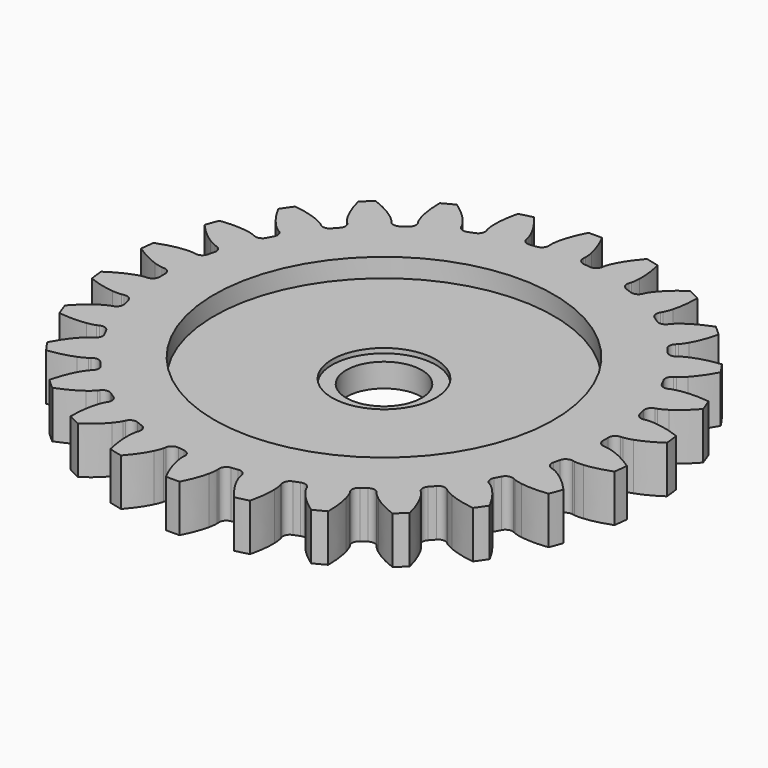
from build123d import *

# Parameters (mm, degrees)
PAD149_DEPTH            = 5
SKETCH217_R             = 18
POCKET051_DEPTH         = 2
SKETCH218_R             = 5.5
POCKET052_DEPTH         = 0.5
SKETCH219_R             = 4
POCKET053_DEPTH         = 5
BODY123_PLACEMENT_ANGLE = 90


with BuildPart() as part:
    # InvoluteGear006 → Pad149 (new body)
    with BuildSketch(Plane.XY):
        with BuildLine():
            Line((24.169679, -1.823902), (24.402023, -1.839925))
            add(Edge.make_bspline(
                [(24.402023, -1.839925), (24.505998, -1.841884), (24.819273, -1.836079), (25.341009, -1.726455)],
                knots=[0, 0, 0, 0, 1, 1, 1, 1], degree=3))
            add(Edge.make_bspline(
                [(25.341009, -1.726455), (25.966142, -1.593485), (26.869244, -1.31269), (27.992723, -0.722987)],
                knots=[0, 0, 0, 0, 1, 1, 1, 1], degree=3))
            ThreePointArc((27.992723, -0.722987), (28.002059, 0), (27.992723, 0.722987))
            add(Edge.make_bspline(
                [(27.992723, 0.722987), (26.869244, 1.31269), (25.966142, 1.593485), (25.341009, 1.726455)],
                knots=[0, 0, 0, 0, 1, 1, 1, 1], degree=3))
            add(Edge.make_bspline(
                [(25.341009, 1.726455), (24.819273, 1.836079), (24.505998, 1.841884), (24.402023, 1.839925)],
                knots=[0, 0, 0, 0, 1, 1, 1, 1], degree=3))
            Line((24.402023, 1.839925), (24.169679, 1.823902))
            ThreePointArc((24.169679, 1.823902), (23.633311, 1.995437), (23.367509, 2.49189))
            ThreePointArc((23.367509, 2.49189), (23.328659, 2.832612), (23.28484, 3.172731))
            ThreePointArc((23.28484, 3.172731), (23.424109, 3.718368), (23.90384, 4.013281))
            Line((23.90384, 4.013281), (24.133268, 4.053326))
            add(Edge.make_bspline(
                [(24.133268, 4.053326), (24.23469, 4.076307), (24.537472, 4.156915), (25.017813, 4.388213)],
                knots=[0, 0, 0, 0, 1, 1, 1, 1], degree=3))
            add(Edge.make_bspline(
                [(25.017813, 4.388213), (25.592959, 4.666923), (26.40262, 5.155685), (27.352328, 5.997119)],
                knots=[0, 0, 0, 0, 1, 1, 1, 1], degree=3))
            ThreePointArc((27.352328, 5.997119), (27.18837, 6.701331), (27.006283, 7.401076))
            add(Edge.make_bspline(
                [(27.006283, 7.401076), (25.774325, 7.704777), (24.830267, 7.761286), (24.191477, 7.740788)],
                knots=[0, 0, 0, 0, 1, 1, 1, 1], degree=3))
            add(Edge.make_bspline(
                [(24.191477, 7.740788), (23.658667, 7.722367), (23.353106, 7.653031), (23.252622, 7.626247)],
                knots=[0, 0, 0, 0, 1, 1, 1, 1], degree=3))
            Line((23.252622, 7.626247), (23.030864, 7.555085))
            ThreePointArc((23.030864, 7.555085), (22.46903, 7.593275), (22.092143, 8.011691))
            ThreePointArc((22.092143, 8.011691), (21.972882, 8.333215), (21.848941, 8.652964))
            ThreePointArc((21.848941, 8.652964), (21.853583, 9.216075), (22.248797, 9.617225))
            Line((22.248797, 9.617225), (22.461974, 9.711013))
            add(Edge.make_bspline(
                [(22.461974, 9.711013), (22.55495, 9.757598), (22.829643, 9.908324), (23.240672, 10.247854)],
                knots=[0, 0, 0, 0, 1, 1, 1, 1], degree=3))
            add(Edge.make_bspline(
                [(23.240672, 10.247854), (23.732407, 10.656107), (24.401571, 11.324431), (25.122314, 12.368694)],
                knots=[0, 0, 0, 0, 1, 1, 1, 1], degree=3))
            ThreePointArc((25.122314, 12.368694), (24.794592, 13.013206), (24.450336, 13.64904))
            add(Edge.make_bspline(
                [(24.450336, 13.64904), (23.181496, 13.64909), (22.251348, 13.478029), (21.636025, 13.305254)],
                knots=[0, 0, 0, 0, 1, 1, 1, 1], degree=3))
            add(Edge.make_bspline(
                [(21.636025, 13.305254), (21.123106, 13.159858), (20.843017, 13.019412), (20.751862, 12.969358)],
                knots=[0, 0, 0, 0, 1, 1, 1, 1], degree=3))
            Line((20.751862, 12.969358), (20.553579, 12.847195))
            ThreePointArc((20.553579, 12.847195), (19.998931, 12.749819), (19.532863, 13.065882))
            ThreePointArc((19.532863, 13.065882), (19.340121, 13.349522), (19.143261, 13.630318))
            ThreePointArc((19.143261, 13.630318), (19.013007, 14.178177), (19.300735, 14.662252))
            Line((19.300735, 14.662252), (19.485273, 14.804331))
            add(Edge.make_bspline(
                [(19.485273, 14.804331), (19.564398, 14.871813), (19.795038, 15.083897), (20.112869, 15.511927)],
                knots=[0, 0, 0, 0, 1, 1, 1, 1], degree=3))
            add(Edge.make_bspline(
                [(20.112869, 15.511927), (20.492613, 16.025997), (20.982392, 16.835042), (21.432283, 18.021445)],
                knots=[0, 0, 0, 0, 1, 1, 1, 1], degree=3))
            ThreePointArc((21.432283, 18.021445), (20.959842, 18.5688), (20.473425, 19.103773))
            add(Edge.make_bspline(
                [(20.473425, 19.103773), (19.241443, 18.800167), (18.379261, 18.411478), (17.823166, 18.096467)],
                knots=[0, 0, 0, 0, 1, 1, 1, 1], degree=3))
            add(Edge.make_bspline(
                [(17.823166, 18.096467), (17.359947, 17.832547), (17.121608, 17.629152), (17.04508, 17.558738)],
                knots=[0, 0, 0, 0, 1, 1, 1, 1], degree=3))
            Line((17.04508, 17.558738), (16.881794, 17.392672))
            ThreePointArc((16.881794, 17.392672), (16.366567, 17.16539), (15.838403, 17.360731))
            ThreePointArc((15.838403, 17.360731), (15.583382, 17.590003), (15.325044, 17.815528))
            ThreePointArc((15.325044, 17.815528), (15.067463, 18.316296), (15.230984, 18.855162))
            Line((15.230984, 18.855162), (15.376158, 19.037275))
            add(Edge.make_bspline(
                [(15.376158, 19.037275), (15.436834, 19.121732), (15.610017, 19.382849), (15.816178, 19.874503)],
                knots=[0, 0, 0, 0, 1, 1, 1, 1], degree=3))
            add(Edge.make_bspline(
                [(15.816178, 19.874503), (16.061862, 20.464514), (16.343793, 21.367261), (16.496686, 22.626856)],
                knots=[0, 0, 0, 0, 1, 1, 1, 1], degree=3))
            ThreePointArc((16.496686, 22.626856), (15.906982, 23.045243), (15.306672, 23.448263))
            add(Edge.make_bspline(
                [(15.306672, 23.448263), (14.183147, 22.858647), (13.439038, 22.274919), (12.974489, 21.835979)],
                knots=[0, 0, 0, 0, 1, 1, 1, 1], degree=3))
            add(Edge.make_bspline(
                [(12.974489, 21.835979), (12.587891, 21.468873), (12.405153, 21.21435), (12.3477, 21.127668)],
                knots=[0, 0, 0, 0, 1, 1, 1, 1], degree=3))
            Line((12.3477, 21.127668), (12.228901, 20.92735))
            ThreePointArc((12.228901, 20.92735), (11.783038, 20.583371), (11.223473, 20.646638))
            ThreePointArc((11.223473, 20.646638), (10.920995, 20.808217), (10.616191, 20.965364))
            ThreePointArc((10.616191, 20.965364), (10.246254, 21.389937), (10.276064, 21.952278))
            Line((10.276064, 21.952278), (10.373437, 22.163841))
            add(Edge.make_bspline(
                [(10.373437, 22.163841), (10.412138, 22.260365), (10.517799, 22.555341), (10.600309, 23.082045)],
                knots=[0, 0, 0, 0, 1, 1, 1, 1], degree=3))
            add(Edge.make_bspline(
                [(10.600309, 23.082045), (10.697655, 23.713707), (10.755352, 24.657693), (10.602361, 25.917276)],
                knots=[0, 0, 0, 0, 1, 1, 1, 1], degree=3))
            ThreePointArc((10.602361, 25.917276), (9.929667, 26.18238), (9.250352, 26.430025))
            add(Edge.make_bspline(
                [(9.250352, 26.430025), (8.300578, 25.588666), (7.717787, 24.843822), (7.371782, 24.306464)],
                knots=[0, 0, 0, 0, 1, 1, 1, 1], degree=3))
            add(Edge.make_bspline(
                [(7.371782, 24.306464), (7.084272, 23.857506), (6.967755, 23.566647), (6.932717, 23.468734)],
                knots=[0, 0, 0, 0, 1, 1, 1, 1], degree=3))
            Line((6.932717, 23.468734), (6.865309, 23.245807))
            ThreePointArc((6.865309, 23.245807), (6.514721, 22.805121), (5.956275, 22.732637))
            ThreePointArc((5.956275, 22.732637), (5.623918, 22.817133), (5.290363, 22.89677))
            ThreePointArc((5.290363, 22.89677), (4.829569, 23.220474), (4.723936, 23.773608))
            Line((4.723936, 23.773608), (4.767849, 24.002326))
            add(Edge.make_bspline(
                [(4.767849, 24.002326), (4.782326, 24.105307), (4.814325, 24.416998), (4.768388, 24.948143)],
                knots=[0, 0, 0, 0, 1, 1, 1, 1], degree=3))
            add(Edge.make_bspline(
                [(4.768388, 24.948143), (4.711739, 25.584747), (4.541849, 26.515109), (4.091866, 27.701478)],
                knots=[0, 0, 0, 0, 1, 1, 1, 1], degree=3))
            ThreePointArc((4.091866, 27.701478), (3.375275, 27.797892), (2.656434, 27.875771))
            add(Edge.make_bspline(
                [(2.656434, 27.875771), (1.93561, 26.831564), (1.548006, 25.968893), (1.340654, 25.364345)],
                knots=[0, 0, 0, 0, 1, 1, 1, 1], degree=3))
            add(Edge.make_bspline(
                [(1.340654, 25.364345), (1.168941, 24.859627), (1.125417, 24.549336), (1.114829, 24.445883)],
                knots=[0, 0, 0, 0, 1, 1, 1, 1], degree=3))
            Line((1.114829, 24.445883), (1.10273, 24.213302))
            ThreePointArc((1.10273, 24.213302), (0.867792, 23.70152), (0.342921, 23.497498))
            ThreePointArc((0.342921, 23.497498), (0, 23.5), (-0.342921, 23.497498))
            ThreePointArc((-0.342921, 23.497498), (-0.867792, 23.70152), (-1.10273, 24.213302))
            Line((-1.10273, 24.213302), (-1.114829, 24.445883))
            add(Edge.make_bspline(
                [(-1.114829, 24.445883), (-1.125417, 24.549336), (-1.168941, 24.859627), (-1.340654, 25.364345)],
                knots=[0, 0, 0, 0, 1, 1, 1, 1], degree=3))
            add(Edge.make_bspline(
                [(-1.340654, 25.364345), (-1.548006, 25.968893), (-1.93561, 26.831564), (-2.656434, 27.875771)],
                knots=[0, 0, 0, 0, 1, 1, 1, 1], degree=3))
            ThreePointArc((-2.656434, 27.875771), (-3.375275, 27.797892), (-4.091866, 27.701478))
            add(Edge.make_bspline(
                [(-4.091866, 27.701478), (-4.541849, 26.515109), (-4.711739, 25.584747), (-4.768388, 24.948143)],
                knots=[0, 0, 0, 0, 1, 1, 1, 1], degree=3))
            add(Edge.make_bspline(
                [(-4.768388, 24.948143), (-4.814325, 24.416998), (-4.782326, 24.105307), (-4.767849, 24.002326)],
                knots=[0, 0, 0, 0, 1, 1, 1, 1], degree=3))
            Line((-4.767849, 24.002326), (-4.723936, 23.773608))
            ThreePointArc((-4.723936, 23.773608), (-4.829569, 23.220474), (-5.290363, 22.89677))
            ThreePointArc((-5.290363, 22.89677), (-5.623918, 22.817133), (-5.956275, 22.732637))
            ThreePointArc((-5.956275, 22.732637), (-6.514721, 22.805121), (-6.865309, 23.245807))
            Line((-6.865309, 23.245807), (-6.932717, 23.468734))
            add(Edge.make_bspline(
                [(-6.932717, 23.468734), (-6.967755, 23.566647), (-7.084272, 23.857506), (-7.371782, 24.306464)],
                knots=[0, 0, 0, 0, 1, 1, 1, 1], degree=3))
            add(Edge.make_bspline(
                [(-7.371782, 24.306464), (-7.717787, 24.843822), (-8.300578, 25.588666), (-9.250352, 26.430025)],
                knots=[0, 0, 0, 0, 1, 1, 1, 1], degree=3))
            ThreePointArc((-9.250352, 26.430025), (-9.929667, 26.18238), (-10.602361, 25.917276))
            add(Edge.make_bspline(
                [(-10.602361, 25.917276), (-10.755352, 24.657693), (-10.697655, 23.713707), (-10.600309, 23.082045)],
                knots=[0, 0, 0, 0, 1, 1, 1, 1], degree=3))
            add(Edge.make_bspline(
                [(-10.600309, 23.082045), (-10.517799, 22.555341), (-10.412138, 22.260365), (-10.373437, 22.163841)],
                knots=[0, 0, 0, 0, 1, 1, 1, 1], degree=3))
            Line((-10.373437, 22.163841), (-10.276064, 21.952278))
            ThreePointArc((-10.276064, 21.952278), (-10.246254, 21.389937), (-10.616191, 20.965364))
            ThreePointArc((-10.616191, 20.965364), (-10.920995, 20.808217), (-11.223473, 20.646638))
            ThreePointArc((-11.223473, 20.646638), (-11.783038, 20.583371), (-12.228901, 20.92735))
            Line((-12.228901, 20.92735), (-12.3477, 21.127668))
            add(Edge.make_bspline(
                [(-12.3477, 21.127668), (-12.405153, 21.21435), (-12.587891, 21.468873), (-12.974489, 21.835979)],
                knots=[0, 0, 0, 0, 1, 1, 1, 1], degree=3))
            add(Edge.make_bspline(
                [(-12.974489, 21.835979), (-13.439038, 22.274919), (-14.183147, 22.858647), (-15.306672, 23.448263)],
                knots=[0, 0, 0, 0, 1, 1, 1, 1], degree=3))
            ThreePointArc((-15.306672, 23.448263), (-15.906982, 23.045243), (-16.496686, 22.626856))
            add(Edge.make_bspline(
                [(-16.496686, 22.626856), (-16.343793, 21.367261), (-16.061862, 20.464514), (-15.816178, 19.874503)],
                knots=[0, 0, 0, 0, 1, 1, 1, 1], degree=3))
            add(Edge.make_bspline(
                [(-15.816178, 19.874503), (-15.610017, 19.382849), (-15.436834, 19.121732), (-15.376158, 19.037275)],
                knots=[0, 0, 0, 0, 1, 1, 1, 1], degree=3))
            Line((-15.376158, 19.037275), (-15.230984, 18.855162))
            ThreePointArc((-15.230984, 18.855162), (-15.067463, 18.316296), (-15.325044, 17.815528))
            ThreePointArc((-15.325044, 17.815528), (-15.583382, 17.590003), (-15.838403, 17.360731))
            ThreePointArc((-15.838403, 17.360731), (-16.366567, 17.16539), (-16.881794, 17.392672))
            Line((-16.881794, 17.392672), (-17.04508, 17.558738))
            add(Edge.make_bspline(
                [(-17.04508, 17.558738), (-17.121608, 17.629152), (-17.359947, 17.832547), (-17.823166, 18.096467)],
                knots=[0, 0, 0, 0, 1, 1, 1, 1], degree=3))
            add(Edge.make_bspline(
                [(-17.823166, 18.096467), (-18.379261, 18.411478), (-19.241443, 18.800167), (-20.473425, 19.103773)],
                knots=[0, 0, 0, 0, 1, 1, 1, 1], degree=3))
            ThreePointArc((-20.473425, 19.103773), (-20.959842, 18.5688), (-21.432283, 18.021445))
            add(Edge.make_bspline(
                [(-21.432283, 18.021445), (-20.982392, 16.835042), (-20.492613, 16.025997), (-20.112869, 15.511927)],
                knots=[0, 0, 0, 0, 1, 1, 1, 1], degree=3))
            add(Edge.make_bspline(
                [(-20.112869, 15.511927), (-19.795038, 15.083897), (-19.564398, 14.871813), (-19.485273, 14.804331)],
                knots=[0, 0, 0, 0, 1, 1, 1, 1], degree=3))
            Line((-19.485273, 14.804331), (-19.300735, 14.662252))
            ThreePointArc((-19.300735, 14.662252), (-19.013007, 14.178177), (-19.143261, 13.630318))
            ThreePointArc((-19.143261, 13.630318), (-19.340121, 13.349522), (-19.532863, 13.065882))
            ThreePointArc((-19.532863, 13.065882), (-19.998931, 12.749819), (-20.553579, 12.847195))
            Line((-20.553579, 12.847195), (-20.751862, 12.969358))
            add(Edge.make_bspline(
                [(-20.751862, 12.969358), (-20.843017, 13.019412), (-21.123106, 13.159858), (-21.636025, 13.305254)],
                knots=[0, 0, 0, 0, 1, 1, 1, 1], degree=3))
            add(Edge.make_bspline(
                [(-21.636025, 13.305254), (-22.251348, 13.478029), (-23.181496, 13.64909), (-24.450336, 13.64904)],
                knots=[0, 0, 0, 0, 1, 1, 1, 1], degree=3))
            ThreePointArc((-24.450336, 13.64904), (-24.794592, 13.013206), (-25.122314, 12.368694))
            add(Edge.make_bspline(
                [(-25.122314, 12.368694), (-24.401571, 11.324431), (-23.732407, 10.656107), (-23.240672, 10.247854)],
                knots=[0, 0, 0, 0, 1, 1, 1, 1], degree=3))
            add(Edge.make_bspline(
                [(-23.240672, 10.247854), (-22.829643, 9.908324), (-22.55495, 9.757598), (-22.461974, 9.711013)],
                knots=[0, 0, 0, 0, 1, 1, 1, 1], degree=3))
            Line((-22.461974, 9.711013), (-22.248797, 9.617225))
            ThreePointArc((-22.248797, 9.617225), (-21.853583, 9.216075), (-21.848941, 8.652964))
            ThreePointArc((-21.848941, 8.652964), (-21.972882, 8.333215), (-22.092143, 8.011691))
            ThreePointArc((-22.092143, 8.011691), (-22.46903, 7.593275), (-23.030864, 7.555085))
            Line((-23.030864, 7.555085), (-23.252622, 7.626247))
            add(Edge.make_bspline(
                [(-23.252622, 7.626247), (-23.353106, 7.653031), (-23.658667, 7.722367), (-24.191477, 7.740788)],
                knots=[0, 0, 0, 0, 1, 1, 1, 1], degree=3))
            add(Edge.make_bspline(
                [(-24.191477, 7.740788), (-24.830267, 7.761286), (-25.774325, 7.704777), (-27.006283, 7.401076)],
                knots=[0, 0, 0, 0, 1, 1, 1, 1], degree=3))
            ThreePointArc((-27.006283, 7.401076), (-27.18837, 6.701331), (-27.352328, 5.997119))
            add(Edge.make_bspline(
                [(-27.352328, 5.997119), (-26.40262, 5.155685), (-25.592959, 4.666923), (-25.017813, 4.388213)],
                knots=[0, 0, 0, 0, 1, 1, 1, 1], degree=3))
            add(Edge.make_bspline(
                [(-25.017813, 4.388213), (-24.537472, 4.156915), (-24.23469, 4.076307), (-24.133268, 4.053326)],
                knots=[0, 0, 0, 0, 1, 1, 1, 1], degree=3))
            Line((-24.133268, 4.053326), (-23.90384, 4.013281))
            ThreePointArc((-23.90384, 4.013281), (-23.424109, 3.718368), (-23.28484, 3.172731))
            ThreePointArc((-23.28484, 3.172731), (-23.328659, 2.832612), (-23.367509, 2.49189))
            ThreePointArc((-23.367509, 2.49189), (-23.633311, 1.995437), (-24.169679, 1.823902))
            Line((-24.169679, 1.823902), (-24.402023, 1.839925))
            add(Edge.make_bspline(
                [(-24.402023, 1.839925), (-24.505998, 1.841884), (-24.819273, 1.836079), (-25.341009, 1.726455)],
                knots=[0, 0, 0, 0, 1, 1, 1, 1], degree=3))
            add(Edge.make_bspline(
                [(-25.341009, 1.726455), (-25.966142, 1.593485), (-26.869244, 1.31269), (-27.992723, 0.722987)],
                knots=[0, 0, 0, 0, 1, 1, 1, 1], degree=3))
            ThreePointArc((-27.992723, 0.722987), (-28.002059, 0), (-27.992723, -0.722987))
            add(Edge.make_bspline(
                [(-27.992723, -0.722987), (-26.869244, -1.31269), (-25.966142, -1.593485), (-25.341009, -1.726455)],
                knots=[0, 0, 0, 0, 1, 1, 1, 1], degree=3))
            add(Edge.make_bspline(
                [(-25.341009, -1.726455), (-24.819273, -1.836079), (-24.505998, -1.841884), (-24.402023, -1.839925)],
                knots=[0, 0, 0, 0, 1, 1, 1, 1], degree=3))
            Line((-24.402023, -1.839925), (-24.169679, -1.823902))
            ThreePointArc((-24.169679, -1.823902), (-23.633311, -1.995437), (-23.367509, -2.49189))
            ThreePointArc((-23.367509, -2.49189), (-23.328659, -2.832612), (-23.28484, -3.172731))
            ThreePointArc((-23.28484, -3.172731), (-23.424109, -3.718368), (-23.90384, -4.013281))
            Line((-23.90384, -4.013281), (-24.133268, -4.053326))
            add(Edge.make_bspline(
                [(-24.133268, -4.053326), (-24.23469, -4.076307), (-24.537472, -4.156915), (-25.017813, -4.388213)],
                knots=[0, 0, 0, 0, 1, 1, 1, 1], degree=3))
            add(Edge.make_bspline(
                [(-25.017813, -4.388213), (-25.592959, -4.666923), (-26.40262, -5.155685), (-27.352328, -5.997119)],
                knots=[0, 0, 0, 0, 1, 1, 1, 1], degree=3))
            ThreePointArc((-27.352328, -5.997119), (-27.18837, -6.701331), (-27.006283, -7.401076))
            add(Edge.make_bspline(
                [(-27.006283, -7.401076), (-25.774325, -7.704777), (-24.830267, -7.761286), (-24.191477, -7.740788)],
                knots=[0, 0, 0, 0, 1, 1, 1, 1], degree=3))
            add(Edge.make_bspline(
                [(-24.191477, -7.740788), (-23.658667, -7.722367), (-23.353106, -7.653031), (-23.252622, -7.626247)],
                knots=[0, 0, 0, 0, 1, 1, 1, 1], degree=3))
            Line((-23.252622, -7.626247), (-23.030864, -7.555085))
            ThreePointArc((-23.030864, -7.555085), (-22.46903, -7.593275), (-22.092143, -8.011691))
            ThreePointArc((-22.092143, -8.011691), (-21.972882, -8.333215), (-21.848941, -8.652964))
            ThreePointArc((-21.848941, -8.652964), (-21.853583, -9.216075), (-22.248797, -9.617225))
            Line((-22.248797, -9.617225), (-22.461974, -9.711013))
            add(Edge.make_bspline(
                [(-22.461974, -9.711013), (-22.55495, -9.757598), (-22.829643, -9.908324), (-23.240672, -10.247854)],
                knots=[0, 0, 0, 0, 1, 1, 1, 1], degree=3))
            add(Edge.make_bspline(
                [(-23.240672, -10.247854), (-23.732407, -10.656107), (-24.401571, -11.324431), (-25.122314, -12.368694)],
                knots=[0, 0, 0, 0, 1, 1, 1, 1], degree=3))
            ThreePointArc((-25.122314, -12.368694), (-24.794592, -13.013206), (-24.450336, -13.64904))
            add(Edge.make_bspline(
                [(-24.450336, -13.64904), (-23.181496, -13.64909), (-22.251348, -13.478029), (-21.636025, -13.305254)],
                knots=[0, 0, 0, 0, 1, 1, 1, 1], degree=3))
            add(Edge.make_bspline(
                [(-21.636025, -13.305254), (-21.123106, -13.159858), (-20.843017, -13.019412), (-20.751862, -12.969358)],
                knots=[0, 0, 0, 0, 1, 1, 1, 1], degree=3))
            Line((-20.751862, -12.969358), (-20.553579, -12.847195))
            ThreePointArc((-20.553579, -12.847195), (-19.998931, -12.749819), (-19.532863, -13.065882))
            ThreePointArc((-19.532863, -13.065882), (-19.340121, -13.349522), (-19.143261, -13.630318))
            ThreePointArc((-19.143261, -13.630318), (-19.013007, -14.178177), (-19.300735, -14.662252))
            Line((-19.300735, -14.662252), (-19.485273, -14.804331))
            add(Edge.make_bspline(
                [(-19.485273, -14.804331), (-19.564398, -14.871813), (-19.795038, -15.083897), (-20.112869, -15.511927)],
                knots=[0, 0, 0, 0, 1, 1, 1, 1], degree=3))
            add(Edge.make_bspline(
                [(-20.112869, -15.511927), (-20.492613, -16.025997), (-20.982392, -16.835042), (-21.432283, -18.021445)],
                knots=[0, 0, 0, 0, 1, 1, 1, 1], degree=3))
            ThreePointArc((-21.432283, -18.021445), (-20.959842, -18.5688), (-20.473425, -19.103773))
            add(Edge.make_bspline(
                [(-20.473425, -19.103773), (-19.241443, -18.800167), (-18.379261, -18.411478), (-17.823166, -18.096467)],
                knots=[0, 0, 0, 0, 1, 1, 1, 1], degree=3))
            add(Edge.make_bspline(
                [(-17.823166, -18.096467), (-17.359947, -17.832547), (-17.121608, -17.629152), (-17.04508, -17.558738)],
                knots=[0, 0, 0, 0, 1, 1, 1, 1], degree=3))
            Line((-17.04508, -17.558738), (-16.881794, -17.392672))
            ThreePointArc((-16.881794, -17.392672), (-16.366567, -17.16539), (-15.838403, -17.360731))
            ThreePointArc((-15.838403, -17.360731), (-15.583382, -17.590003), (-15.325044, -17.815528))
            ThreePointArc((-15.325044, -17.815528), (-15.067463, -18.316296), (-15.230984, -18.855162))
            Line((-15.230984, -18.855162), (-15.376158, -19.037275))
            add(Edge.make_bspline(
                [(-15.376158, -19.037275), (-15.436834, -19.121732), (-15.610017, -19.382849), (-15.816178, -19.874503)],
                knots=[0, 0, 0, 0, 1, 1, 1, 1], degree=3))
            add(Edge.make_bspline(
                [(-15.816178, -19.874503), (-16.061862, -20.464514), (-16.343793, -21.367261), (-16.496686, -22.626856)],
                knots=[0, 0, 0, 0, 1, 1, 1, 1], degree=3))
            ThreePointArc((-16.496686, -22.626856), (-15.906982, -23.045243), (-15.306672, -23.448263))
            add(Edge.make_bspline(
                [(-15.306672, -23.448263), (-14.183147, -22.858647), (-13.439038, -22.274919), (-12.974489, -21.835979)],
                knots=[0, 0, 0, 0, 1, 1, 1, 1], degree=3))
            add(Edge.make_bspline(
                [(-12.974489, -21.835979), (-12.587891, -21.468873), (-12.405153, -21.21435), (-12.3477, -21.127668)],
                knots=[0, 0, 0, 0, 1, 1, 1, 1], degree=3))
            Line((-12.3477, -21.127668), (-12.228901, -20.92735))
            ThreePointArc((-12.228901, -20.92735), (-11.783038, -20.583371), (-11.223473, -20.646638))
            ThreePointArc((-11.223473, -20.646638), (-10.920995, -20.808217), (-10.616191, -20.965364))
            ThreePointArc((-10.616191, -20.965364), (-10.246254, -21.389937), (-10.276064, -21.952278))
            Line((-10.276064, -21.952278), (-10.373437, -22.163841))
            add(Edge.make_bspline(
                [(-10.373437, -22.163841), (-10.412138, -22.260365), (-10.517799, -22.555341), (-10.600309, -23.082045)],
                knots=[0, 0, 0, 0, 1, 1, 1, 1], degree=3))
            add(Edge.make_bspline(
                [(-10.600309, -23.082045), (-10.697655, -23.713707), (-10.755352, -24.657693), (-10.602361, -25.917276)],
                knots=[0, 0, 0, 0, 1, 1, 1, 1], degree=3))
            ThreePointArc((-10.602361, -25.917276), (-9.929667, -26.18238), (-9.250352, -26.430025))
            add(Edge.make_bspline(
                [(-9.250352, -26.430025), (-8.300578, -25.588666), (-7.717787, -24.843822), (-7.371782, -24.306464)],
                knots=[0, 0, 0, 0, 1, 1, 1, 1], degree=3))
            add(Edge.make_bspline(
                [(-7.371782, -24.306464), (-7.084272, -23.857506), (-6.967755, -23.566647), (-6.932717, -23.468734)],
                knots=[0, 0, 0, 0, 1, 1, 1, 1], degree=3))
            Line((-6.932717, -23.468734), (-6.865309, -23.245807))
            ThreePointArc((-6.865309, -23.245807), (-6.514721, -22.805121), (-5.956275, -22.732637))
            ThreePointArc((-5.956275, -22.732637), (-5.623918, -22.817133), (-5.290363, -22.89677))
            ThreePointArc((-5.290363, -22.89677), (-4.829569, -23.220474), (-4.723936, -23.773608))
            Line((-4.723936, -23.773608), (-4.767849, -24.002326))
            add(Edge.make_bspline(
                [(-4.767849, -24.002326), (-4.782326, -24.105307), (-4.814325, -24.416998), (-4.768388, -24.948143)],
                knots=[0, 0, 0, 0, 1, 1, 1, 1], degree=3))
            add(Edge.make_bspline(
                [(-4.768388, -24.948143), (-4.711739, -25.584747), (-4.541849, -26.515109), (-4.091866, -27.701478)],
                knots=[0, 0, 0, 0, 1, 1, 1, 1], degree=3))
            ThreePointArc((-4.091866, -27.701478), (-3.375275, -27.797892), (-2.656434, -27.875771))
            add(Edge.make_bspline(
                [(-2.656434, -27.875771), (-1.93561, -26.831564), (-1.548006, -25.968893), (-1.340654, -25.364345)],
                knots=[0, 0, 0, 0, 1, 1, 1, 1], degree=3))
            add(Edge.make_bspline(
                [(-1.340654, -25.364345), (-1.168941, -24.859627), (-1.125417, -24.549336), (-1.114829, -24.445883)],
                knots=[0, 0, 0, 0, 1, 1, 1, 1], degree=3))
            Line((-1.114829, -24.445883), (-1.10273, -24.213302))
            ThreePointArc((-1.10273, -24.213302), (-0.867792, -23.70152), (-0.342921, -23.497498))
            ThreePointArc((-0.342921, -23.497498), (0, -23.5), (0.342921, -23.497498))
            ThreePointArc((0.342921, -23.497498), (0.867792, -23.70152), (1.10273, -24.213302))
            Line((1.10273, -24.213302), (1.114829, -24.445883))
            add(Edge.make_bspline(
                [(1.114829, -24.445883), (1.125417, -24.549336), (1.168941, -24.859627), (1.340654, -25.364345)],
                knots=[0, 0, 0, 0, 1, 1, 1, 1], degree=3))
            add(Edge.make_bspline(
                [(1.340654, -25.364345), (1.548006, -25.968893), (1.93561, -26.831564), (2.656434, -27.875771)],
                knots=[0, 0, 0, 0, 1, 1, 1, 1], degree=3))
            ThreePointArc((2.656434, -27.875771), (3.375275, -27.797892), (4.091866, -27.701478))
            add(Edge.make_bspline(
                [(4.091866, -27.701478), (4.541849, -26.515109), (4.711739, -25.584747), (4.768388, -24.948143)],
                knots=[0, 0, 0, 0, 1, 1, 1, 1], degree=3))
            add(Edge.make_bspline(
                [(4.768388, -24.948143), (4.814325, -24.416998), (4.782326, -24.105307), (4.767849, -24.002326)],
                knots=[0, 0, 0, 0, 1, 1, 1, 1], degree=3))
            Line((4.767849, -24.002326), (4.723936, -23.773608))
            ThreePointArc((4.723936, -23.773608), (4.829569, -23.220474), (5.290363, -22.89677))
            ThreePointArc((5.290363, -22.89677), (5.623918, -22.817133), (5.956275, -22.732637))
            ThreePointArc((5.956275, -22.732637), (6.514721, -22.805121), (6.865309, -23.245807))
            Line((6.865309, -23.245807), (6.932717, -23.468734))
            add(Edge.make_bspline(
                [(6.932717, -23.468734), (6.967755, -23.566647), (7.084272, -23.857506), (7.371782, -24.306464)],
                knots=[0, 0, 0, 0, 1, 1, 1, 1], degree=3))
            add(Edge.make_bspline(
                [(7.371782, -24.306464), (7.717787, -24.843822), (8.300578, -25.588666), (9.250352, -26.430025)],
                knots=[0, 0, 0, 0, 1, 1, 1, 1], degree=3))
            ThreePointArc((9.250352, -26.430025), (9.929667, -26.18238), (10.602361, -25.917276))
            add(Edge.make_bspline(
                [(10.602361, -25.917276), (10.755352, -24.657693), (10.697655, -23.713707), (10.600309, -23.082045)],
                knots=[0, 0, 0, 0, 1, 1, 1, 1], degree=3))
            add(Edge.make_bspline(
                [(10.600309, -23.082045), (10.517799, -22.555341), (10.412138, -22.260365), (10.373437, -22.163841)],
                knots=[0, 0, 0, 0, 1, 1, 1, 1], degree=3))
            Line((10.373437, -22.163841), (10.276064, -21.952278))
            ThreePointArc((10.276064, -21.952278), (10.246254, -21.389937), (10.616191, -20.965364))
            ThreePointArc((10.616191, -20.965364), (10.920995, -20.808217), (11.223473, -20.646638))
            ThreePointArc((11.223473, -20.646638), (11.783038, -20.583371), (12.228901, -20.92735))
            Line((12.228901, -20.92735), (12.3477, -21.127668))
            add(Edge.make_bspline(
                [(12.3477, -21.127668), (12.405153, -21.21435), (12.587891, -21.468873), (12.974489, -21.835979)],
                knots=[0, 0, 0, 0, 1, 1, 1, 1], degree=3))
            add(Edge.make_bspline(
                [(12.974489, -21.835979), (13.439038, -22.274919), (14.183147, -22.858647), (15.306672, -23.448263)],
                knots=[0, 0, 0, 0, 1, 1, 1, 1], degree=3))
            ThreePointArc((15.306672, -23.448263), (15.906982, -23.045243), (16.496686, -22.626856))
            add(Edge.make_bspline(
                [(16.496686, -22.626856), (16.343793, -21.367261), (16.061862, -20.464514), (15.816178, -19.874503)],
                knots=[0, 0, 0, 0, 1, 1, 1, 1], degree=3))
            add(Edge.make_bspline(
                [(15.816178, -19.874503), (15.610017, -19.382849), (15.436834, -19.121732), (15.376158, -19.037275)],
                knots=[0, 0, 0, 0, 1, 1, 1, 1], degree=3))
            Line((15.376158, -19.037275), (15.230984, -18.855162))
            ThreePointArc((15.230984, -18.855162), (15.067463, -18.316296), (15.325044, -17.815528))
            ThreePointArc((15.325044, -17.815528), (15.583382, -17.590003), (15.838403, -17.360731))
            ThreePointArc((15.838403, -17.360731), (16.366567, -17.16539), (16.881794, -17.392672))
            Line((16.881794, -17.392672), (17.04508, -17.558738))
            add(Edge.make_bspline(
                [(17.04508, -17.558738), (17.121608, -17.629152), (17.359947, -17.832547), (17.823166, -18.096467)],
                knots=[0, 0, 0, 0, 1, 1, 1, 1], degree=3))
            add(Edge.make_bspline(
                [(17.823166, -18.096467), (18.379261, -18.411478), (19.241443, -18.800167), (20.473425, -19.103773)],
                knots=[0, 0, 0, 0, 1, 1, 1, 1], degree=3))
            ThreePointArc((20.473425, -19.103773), (20.959842, -18.5688), (21.432283, -18.021445))
            add(Edge.make_bspline(
                [(21.432283, -18.021445), (20.982392, -16.835042), (20.492613, -16.025997), (20.112869, -15.511927)],
                knots=[0, 0, 0, 0, 1, 1, 1, 1], degree=3))
            add(Edge.make_bspline(
                [(20.112869, -15.511927), (19.795038, -15.083897), (19.564398, -14.871813), (19.485273, -14.804331)],
                knots=[0, 0, 0, 0, 1, 1, 1, 1], degree=3))
            Line((19.485273, -14.804331), (19.300735, -14.662252))
            ThreePointArc((19.300735, -14.662252), (19.013007, -14.178177), (19.143261, -13.630318))
            ThreePointArc((19.143261, -13.630318), (19.340121, -13.349522), (19.532863, -13.065882))
            ThreePointArc((19.532863, -13.065882), (19.998931, -12.749819), (20.553579, -12.847195))
            Line((20.553579, -12.847195), (20.751862, -12.969358))
            add(Edge.make_bspline(
                [(20.751862, -12.969358), (20.843017, -13.019412), (21.123106, -13.159858), (21.636025, -13.305254)],
                knots=[0, 0, 0, 0, 1, 1, 1, 1], degree=3))
            add(Edge.make_bspline(
                [(21.636025, -13.305254), (22.251348, -13.478029), (23.181496, -13.64909), (24.450336, -13.64904)],
                knots=[0, 0, 0, 0, 1, 1, 1, 1], degree=3))
            ThreePointArc((24.450336, -13.64904), (24.794592, -13.013206), (25.122314, -12.368694))
            add(Edge.make_bspline(
                [(25.122314, -12.368694), (24.401571, -11.324431), (23.732407, -10.656107), (23.240672, -10.247854)],
                knots=[0, 0, 0, 0, 1, 1, 1, 1], degree=3))
            add(Edge.make_bspline(
                [(23.240672, -10.247854), (22.829643, -9.908324), (22.55495, -9.757598), (22.461974, -9.711013)],
                knots=[0, 0, 0, 0, 1, 1, 1, 1], degree=3))
            Line((22.461974, -9.711013), (22.248797, -9.617225))
            ThreePointArc((22.248797, -9.617225), (21.853583, -9.216075), (21.848941, -8.652964))
            ThreePointArc((21.848941, -8.652964), (21.972882, -8.333215), (22.092143, -8.011691))
            ThreePointArc((22.092143, -8.011691), (22.46903, -7.593275), (23.030864, -7.555085))
            Line((23.030864, -7.555085), (23.252622, -7.626247))
            add(Edge.make_bspline(
                [(23.252622, -7.626247), (23.353106, -7.653031), (23.658667, -7.722367), (24.191477, -7.740788)],
                knots=[0, 0, 0, 0, 1, 1, 1, 1], degree=3))
            add(Edge.make_bspline(
                [(24.191477, -7.740788), (24.830267, -7.761286), (25.774325, -7.704777), (27.006283, -7.401076)],
                knots=[0, 0, 0, 0, 1, 1, 1, 1], degree=3))
            ThreePointArc((27.006283, -7.401076), (27.18837, -6.701331), (27.352328, -5.997119))
            add(Edge.make_bspline(
                [(27.352328, -5.997119), (26.40262, -5.155685), (25.592959, -4.666923), (25.017813, -4.388213)],
                knots=[0, 0, 0, 0, 1, 1, 1, 1], degree=3))
            add(Edge.make_bspline(
                [(25.017813, -4.388213), (24.537472, -4.156915), (24.23469, -4.076307), (24.133268, -4.053326)],
                knots=[0, 0, 0, 0, 1, 1, 1, 1], degree=3))
            Line((24.133268, -4.053326), (23.90384, -4.013281))
            ThreePointArc((23.90384, -4.013281), (23.424109, -3.718368), (23.28484, -3.172731))
            ThreePointArc((23.28484, -3.172731), (23.328659, -2.832612), (23.367509, -2.49189))
            ThreePointArc((23.367509, -2.49189), (23.633311, -1.995437), (24.169679, -1.823902))
        make_face()
    extrude(amount=PAD149_DEPTH)

    # Sketch217 (on Face262 of Pad149) → Pocket051 (cut)
    with BuildSketch(Plane.XY.offset(5)):
        Circle(SKETCH217_R)
    extrude(amount=-POCKET051_DEPTH, mode=Mode.SUBTRACT)

    # Sketch218 (on Face264 of Pocket051) → Pocket052 (cut)
    with BuildSketch(Plane.XY.offset(3)):
        Circle(SKETCH218_R)
    extrude(amount=-POCKET052_DEPTH, mode=Mode.SUBTRACT)

    # Sketch219 (on Face266 of Pocket052) → Pocket053 (cut)
    with BuildSketch(Plane.XY.offset(2.5)):
        Circle(SKETCH219_R)
    extrude(amount=-POCKET053_DEPTH, mode=Mode.SUBTRACT)


with BuildPart() as part_1:
    # Body123 placement: moved
    add(part.part.moved(Location((-48, 0, 68))).rotate(Axis((-48, 0, 68), (0, 0, -1)), BODY123_PLACEMENT_ANGLE))


with BuildPart() as part_2:
    # Body137 placement: moved
    add(part_1.part.moved(Location((96, 0, 0))))


solid = part_2.part
